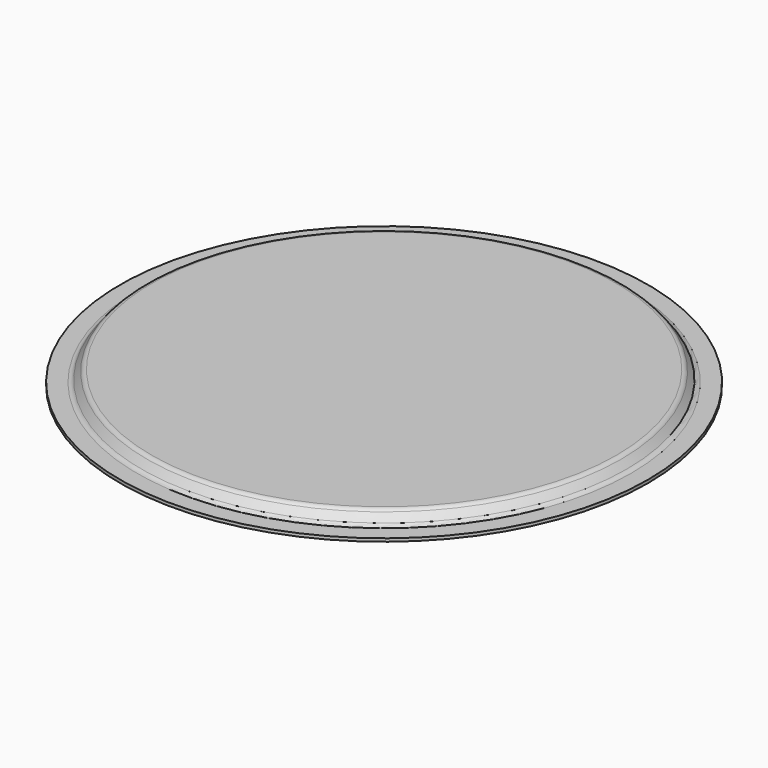
from build123d import *


with BuildPart() as f1:
    # F0 (on Front) → F1 (revolve)
    with BuildSketch(Plane.XZ):
        with BuildLine():
            Line((259.85746, 0), (0, 0))
            Line((0, 0), (0, -3.429))
            Line((0, -3.429), (261.282557, -3.429))
            Line((261.282557, -3.429), (268.263612, -12.368722))
            ThreePointArc((268.263612, -12.368722), (271.683124, -15.138797), (275.971, -16.129))
            Line((275.971, -16.129), (295.021, -16.129))
            Line((295.021, -16.129), (295.021, -12.7))
            Line((295.021, -12.7), (275.971, -12.7))
            ThreePointArc((275.971, -12.7), (273.186665, -12.057011), (270.966203, -10.258261))
            Line((270.966203, -10.258261), (264.862258, -2.441739))
            ThreePointArc((264.862258, -2.441739), (262.641795, -0.642989), (259.85746, 0))
        make_face()
    revolve(axis=Axis((0, 0, -1.7145), (0, 0, -1)))


solid = f1.part
